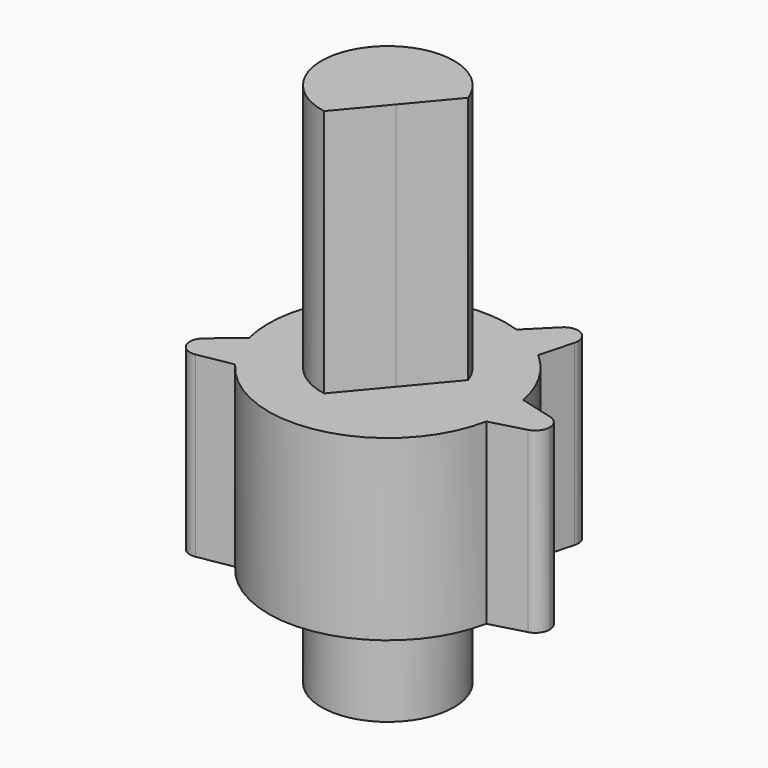
from build123d import *

# Parameters (mm, degrees)
F1_DEPTH = 10.75
F2_R     = 4
F3_DEPTH = 16.75
F5_DEPTH = 25.75


with BuildPart() as f1:
    # F0 (on Top) → F1 (new body)
    with BuildSketch(Plane.XY):
        with BuildLine():
            Line((0, 0), (7.2, 0))
            ThreePointArc((7.2, 0), (7.1656564529, 0.7024013095), (7.0629534446, 1.3981017988))
            ThreePointArc((7.0629534446, 1.3981017988), (6.2353829072, 3.6), (4.7422683972, 5.4176462093))
            ThreePointArc((4.7422683972, 5.4176462093), (4.1911256041, 5.8544398682), (3.6, 6.2353829072))
            Line((3.6, 6.2353829072), (0, 0))
        make_face()
        with BuildLine():
            Line((8.025, 0), (7.2, 0))
            ThreePointArc((7.2, 0), (7.1656564529, -0.7024013095), (7.0629534446, -1.3981017988))
            Line((7.0629534446, -1.3981017988), (9.1264666645, -0.845185098))
            ThreePointArc((9.1264666645, -0.845185098), (8.3673337496, -0.6941841728), (8.025, 0))
        make_face()
        with BuildLine():
            ThreePointArc((7.0629534446, -1.3981017988), (7.1656564529, -0.7024013095), (7.2, 0))
            Line((7.2, 0), (0, 0))
            Line((0, 0), (-6.5254160667, -3.0428514845))
            ThreePointArc((-6.5254160667, -3.0428514845), (-6.197442622, -3.6649290508), (-5.8103463543, -4.2520436549))
            ThreePointArc((-5.8103463543, -4.2520436549), (1.5583652204, -7.0293312513), (7.0629534446, -1.3981017988))
        make_face()
        with BuildLine():
            ThreePointArc((7.0629534446, 1.3981017988), (7.1656564529, 0.7024013095), (7.2, 0))
            Line((7.2, 0), (8.025, 0))
            ThreePointArc((8.025, 0), (8.3673337496, 0.6941841728), (9.1264666645, 0.845185098))
            Line((9.1264666645, 0.845185098), (7.0629534446, 1.3981017988))
        make_face()
        with BuildLine():
            Line((-4.1297503417, 5.8978947189), (0, 0))
            Line((0, 0), (3.6, 6.2353829072))
            ThreePointArc((3.6, 6.2353829072), (2.9745308488, 6.5568411777), (2.3206850474, 6.8157480082))
            ThreePointArc((2.3206850474, 6.8157480082), (-0.314059589, 7.1931471954), (-2.9058857202, 6.5875510003))
            ThreePointArc((-2.9058857202, 6.5875510003), (-3.5346782238, 6.272642972), (-4.1297503417, 5.8978947189))
        make_face()
        with BuildLine():
            Line((-6.5254160667, -3.0428514845), (0, 0))
            Line((0, 0), (-4.1297503417, 5.8978947189))
            ThreePointArc((-4.1297503417, 5.8978947189), (-4.6854251609, 5.466881292), (-5.1964016135, 4.9837145054))
            ThreePointArc((-5.1964016135, 4.9837145054), (-6.9546659493, 1.8634971247), (-6.9920730582, -1.7178225601))
            ThreePointArc((-6.9920730582, -1.7178225601), (-6.7911378629, -2.3917454979), (-6.5254160667, -3.0428514845))
        make_face()
        with BuildLine():
            ThreePointArc((9.1264666645, 0.845185098), (8.3673337496, 0.6941841728), (8.025, 0))
            Line((8.025, 0), (8.9, 0))
            Line((8.9, 0), (9.1264666645, 0.845185098))
        make_face()
        with BuildLine():
            Line((8.9, 0), (8.025, 0))
            ThreePointArc((8.025, 0), (8.3673337496, -0.6941841728), (9.1264666645, -0.845185098))
            Line((9.1264666645, -0.845185098), (8.9, 0))
        make_face()
        with BuildLine():
            ThreePointArc((3.6, 6.2353829072), (4.1911256041, 5.8544398682), (4.7422683972, 5.4176462093))
            Line((4.7422683972, 5.4176462093), (5.295185098, 7.4811594292))
            ThreePointArc((5.295185098, 7.4811594292), (4.7848480033, 6.8992315027), (4.0125, 6.9498538654))
            Line((4.0125, 6.9498538654), (3.6, 6.2353829072))
        make_face()
        with BuildLine():
            ThreePointArc((9.775, 0), (9.5941841728, 0.5326662504), (9.1264666645, 0.845185098))
            Line((9.1264666645, 0.845185098), (8.9, 0))
            Line((8.9, 0), (9.1264666645, -0.845185098))
            ThreePointArc((9.1264666645, -0.845185098), (9.5941841728, -0.5326662504), (9.775, 0))
        make_face()
        with BuildLine():
            Line((-7.9141971492, -4.6230093134), (-5.8103463543, -4.2520436549))
            ThreePointArc((-5.8103463543, -4.2520436549), (-6.197442622, -3.6649290508), (-6.5254160667, -3.0428514845))
            Line((-6.5254160667, -3.0428514845), (-7.273119991, -3.3915115505))
            ThreePointArc((-7.273119991, -3.3915115505), (-7.2118802984, -3.5719178673), (-7.1911393046, -3.7613025295))
            ThreePointArc((-7.1911393046, -3.7613025295), (-7.3958504169, -4.323741688), (-7.9141971492, -4.6230093134))
        make_face()
        with BuildLine():
            Line((-7.273119991, -3.3915115505), (-6.5254160667, -3.0428514845))
            ThreePointArc((-6.5254160667, -3.0428514845), (-6.7911378629, -2.3917454979), (-6.9920730582, -1.7178225601))
            Line((-6.9920730582, -1.7178225601), (-8.6285784631, -3.0910136418))
            ThreePointArc((-8.6285784631, -3.0910136418), (-7.8767546424, -2.9070435233), (-7.273119991, -3.3915115505))
        make_face()
        with BuildLine():
            ThreePointArc((2.3206850474, 6.8157480082), (2.9745308488, 6.5568411777), (3.6, 6.2353829072))
            Line((3.6, 6.2353829072), (4.0125, 6.9498538654))
            ThreePointArc((4.0125, 6.9498538654), (3.5824857463, 7.5934156755), (3.8312815665, 8.3263445272))
            Line((3.8312815665, 8.3263445272), (2.3206850474, 6.8157480082))
        make_face()
        with BuildLine():
            Line((-4.6029509017, 6.5736951554), (-4.1297503417, 5.8978947189))
            ThreePointArc((-4.1297503417, 5.8978947189), (-3.5346782238, 6.272642972), (-2.9058857202, 6.5875510003))
            Line((-2.9058857202, 6.5875510003), (-4.542391125, 7.9607420819))
            ThreePointArc((-4.542391125, 7.9607420819), (-4.3118109699, 7.6602441732), (-4.2298302835, 7.2904531942))
            ThreePointArc((-4.2298302835, 7.2904531942), (-4.3286958045, 6.8864231576), (-4.6029509017, 6.5736951554))
        make_face()
        with BuildLine():
            ThreePointArc((-5.1964016135, 4.9837145054), (-4.6854251609, 5.466881292), (-4.1297503417, 5.8978947189))
            Line((-4.1297503417, 5.8978947189), (-4.6029509017, 6.5736951554))
            ThreePointArc((-4.6029509017, 6.5736951554), (-5.3679478581, 6.4559508623), (-5.9270613267, 6.9911855688))
            Line((-5.9270613267, 6.9911855688), (-5.1964016135, 4.9837145054))
        make_face()
        with BuildLine():
            Line((4.45, 7.7076260937), (5.295185098, 7.4811594292))
            ThreePointArc((5.295185098, 7.4811594292), (5.3175142537, 7.5934156755), (5.325, 7.7076260937))
            ThreePointArc((5.325, 7.7076260937), (4.7848480033, 8.5160206846), (3.8312815665, 8.3263445272))
            Line((3.8312815665, 8.3263445272), (4.45, 7.7076260937))
        make_face()
        with BuildLine():
            ThreePointArc((4.0125, 6.9498538654), (4.7848480033, 6.8992315027), (5.295185098, 7.4811594292))
            Line((5.295185098, 7.4811594292), (4.45, 7.7076260937))
            Line((4.45, 7.7076260937), (4.0125, 6.9498538654))
        make_face()
        with BuildLine():
            ThreePointArc((-8.6285784631, -3.0910136418), (-8.8591586183, -4.1310935085), (-7.9141971492, -4.6230093134))
            ThreePointArc((-7.9141971492, -4.6230093134), (-7.3958504169, -4.323741688), (-7.1911393046, -3.7613025295))
            ThreePointArc((-7.1911393046, -3.7613025295), (-7.2118802984, -3.5719178673), (-7.273119991, -3.3915115505))
            ThreePointArc((-7.273119991, -3.3915115505), (-7.8767546424, -2.9070435233), (-8.6285784631, -3.0910136418))
        make_face()
        with BuildLine():
            ThreePointArc((3.8312815665, 8.3263445272), (3.5824857463, 7.5934156755), (4.0125, 6.9498538654))
            Line((4.0125, 6.9498538654), (4.45, 7.7076260937))
            Line((4.45, 7.7076260937), (3.8312815665, 8.3263445272))
        make_face()
        with BuildLine():
            ThreePointArc((-5.9270613267, 6.9911855688), (-5.3679478581, 6.4559508623), (-4.6029509017, 6.5736951554))
            ThreePointArc((-4.6029509017, 6.5736951554), (-4.3286958045, 6.8864231576), (-4.2298302835, 7.2904531942))
            ThreePointArc((-4.2298302835, 7.2904531942), (-4.3118109699, 7.6602441732), (-4.542391125, 7.9607420819))
            ThreePointArc((-4.542391125, 7.9607420819), (-5.6067096653, 8.0072112329), (-5.9270613267, 6.9911855688))
        make_face()
    extrude(amount=F1_DEPTH)

    # F2 (on face) → F3 (join)
    with BuildSketch(Plane.XY.offset(10.75)):
        Circle(F2_R)
    extrude(amount=-F3_DEPTH)

    # F4 (on face) → F5 (join)
    with BuildSketch(Plane(origin=(0, 0, 0), x_dir=(1, 0, 0), z_dir=(0, 0, -1))):
        with BuildLine():
            Line((1.5320888862, 1.2855752194), (-0.6945927107, 3.939231012))
            ThreePointArc((-0.6945927107, 3.939231012), (-3.0641777725, -2.5711504387), (3.7587704831, -1.3680805733))
            Line((3.7587704831, -1.3680805733), (1.5320888862, 1.2855752194))
        make_face()
    extrude(amount=-F5_DEPTH)


solid = f1.part
